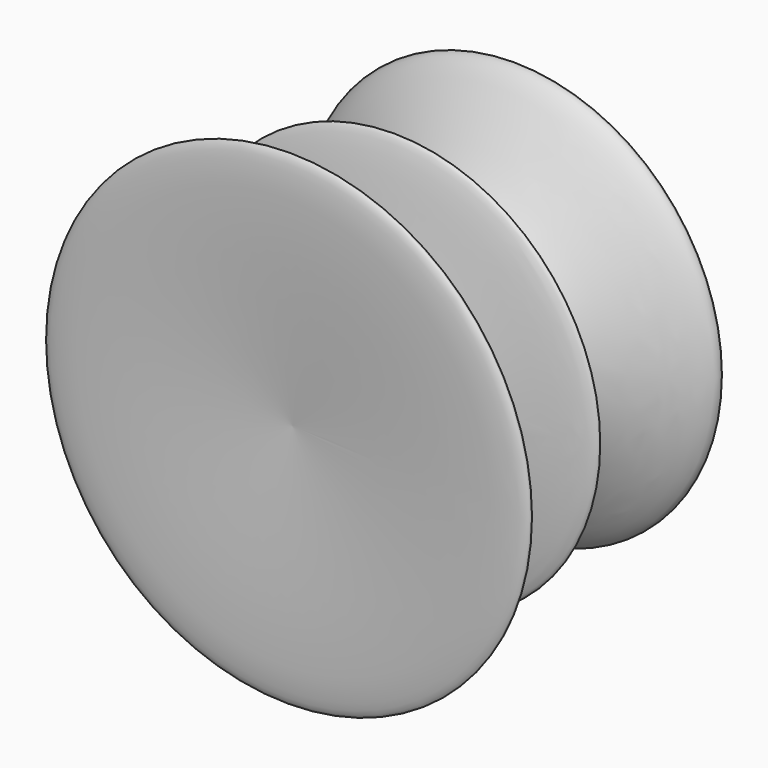
from build123d import *


with BuildPart() as f1:
    # F0 (on Top) → F1 (revolve)
    with BuildSketch(Plane.XY):
        with BuildLine():
            add(Edge.make_bspline(
                [(0, 407.6704382896), (169.4760361528, 425.6220785069), (482.1967952683, 458.7468239491), (-22.183208367, 245.4943179863), (498.7681367238, 182.6153056316), (-151.5703010556, 143.3184910032), (590.3155416248, -41.3993767175), (202.095644653, -14.1731550942), (0, 0)],
                knots=[0, 0, 0, 0, 0.1799489274, 0.332045559, 0.4713011073, 0.6288413801, 0.8067859449, 1, 1, 1, 1], degree=3))
            Line((0, 407.6704382896), (0, 0))
        make_face()
    revolve(axis=Axis((0, 203.8352191448, 0), (0, -1, 0)))


solid = f1.part
